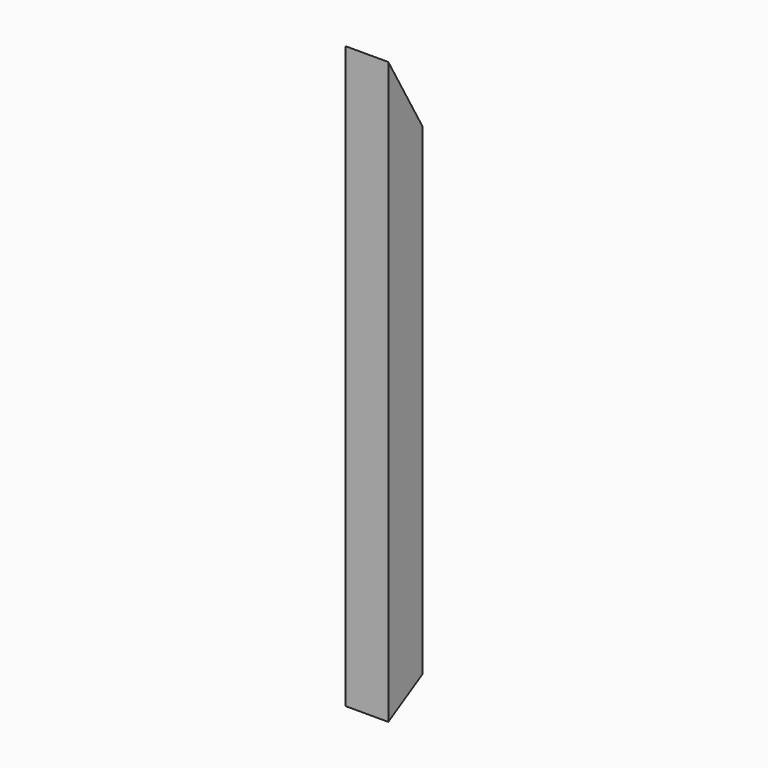
from build123d import *

# Parameters (mm, degrees)
F0_W     = 25.4
F0_H     = 25.4
F0_W_2   = 19.05
F0_H_2   = 19.05
F1_DEPTH = 342.9
F3_DEPTH = 25.4


with BuildPart() as f1:
    # F0 (on Top) → F1 (new body)
    with BuildSketch(Plane.XY):
        with Locations((-12.7, 12.7)):
            Rectangle(F0_W, F0_H)
        with Locations((-12.7, 12.7)):
            Rectangle(F0_W_2, F0_H_2, mode=Mode.SUBTRACT)
    extrude(amount=F1_DEPTH)

    # F2 (on face) → F3 (cut)
    with BuildSketch(Plane.YZ):
        Polygon((25.4, 342.9), (0, 342.9), (25.4, 298.905909), align=None)
        Polygon((25.4, 14.664697), (0, 0), (25.4, 0), align=None)
    extrude(amount=-F3_DEPTH, mode=Mode.SUBTRACT)


solid = f1.part
